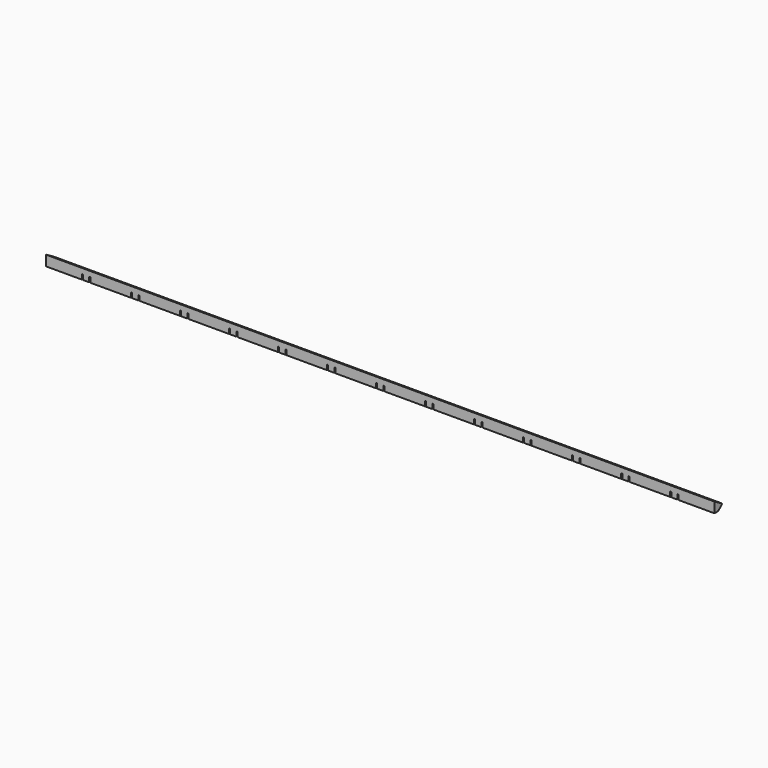
from build123d import *

# Parameters (mm, degrees)
PAD004_DEPTH        = 1500
POCKET003_DEPTH     = 11
LINEARPATTERN_COUNT = 14
LINEARPATTERN_PITCH = 110


with BuildPart() as part:
    # Sketch008 → Pad004 (new body)
    with BuildSketch(Plane.YZ):
        Polygon((0, 0), (11, 0), (21, 10), (21, 11), (0, 23.124356), align=None)
    extrude(amount=PAD004_DEPTH)

    # Sketch009 → Pocket003 (cut)
    with BuildSketch(Plane.XY):
        Polygon((6.70945, 46.612398), (8.29055, 45.387602), (35, 79.867074), (88.735058, 10.5), (78.064124, -3.275205), (79.645224, -4.5), (90, 8.867074), (100.354776, -4.5), (101.935876, -3.275205), (91.264942, 10.5), (118.29055, 45.387602), (116.70945, 46.612398), (90, 12.132926), (36.264942, 81.5), (46.935876, 95.275205), (45.354776, 96.5), (35, 83.132926), (24.645224, 96.5), (23.064124, 95.275205), (33.735058, 81.5), align=None)
    pocket003 = extrude(amount=POCKET003_DEPTH, mode=Mode.SUBTRACT)

    # LinearPattern: Pocket003 ×14
    with Locations(*[(i * LINEARPATTERN_PITCH, 0, 0) for i in range(1, LINEARPATTERN_COUNT)]):
        add(pocket003, mode=Mode.SUBTRACT)


solid = part.part
